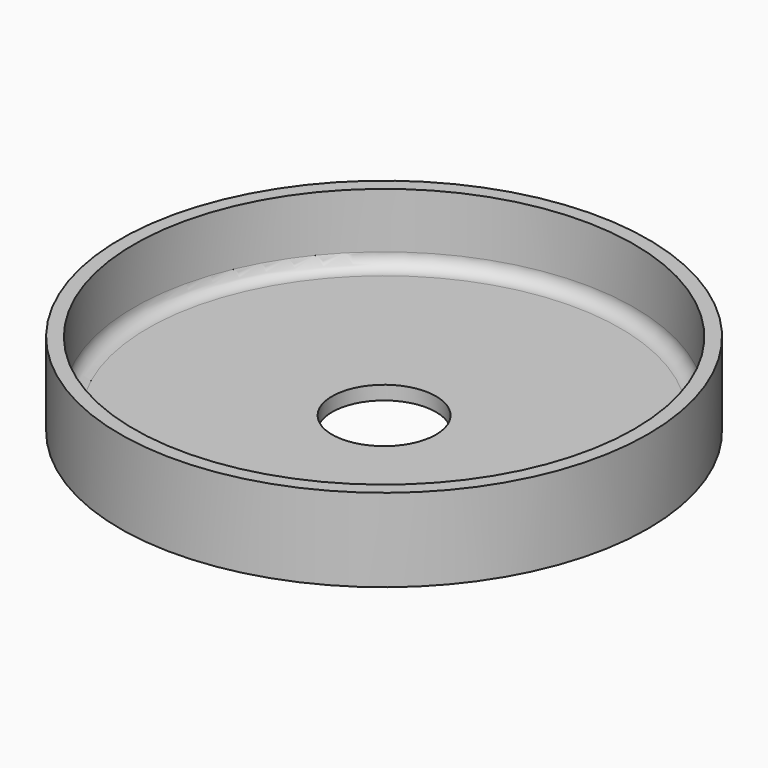
from build123d import *

# Parameters (mm, degrees)
F2_R     = 15
F3_DEPTH = 25


with BuildPart() as f1:
    # F0 (on Front) → F1 (revolve)
    with BuildSketch(Plane.XZ):
        with BuildLine():
            Line((0, 4), (0, 0))
            Line((0, 0), (72.2, 0))
            Line((72.2, 0), (76.2, 0))
            Line((76.2, 0), (76.2, 4))
            Line((76.2, 4), (76.2, 24))
            Line((76.2, 24), (72.2, 24))
            Line((72.2, 24), (72.2, 8))
            ThreePointArc((72.2, 8), (71.028427, 5.171573), (68.2, 4))
            Line((68.2, 4), (0, 4))
        make_face()
    revolve(axis=Axis((0, 0, 2), (0, 0, 1)))

    # F2 (on face) → F3 (cut)
    with BuildSketch(Plane.XY.offset(4)):
        Circle(F2_R)
    extrude(amount=-F3_DEPTH, mode=Mode.SUBTRACT)


solid = f1.part
